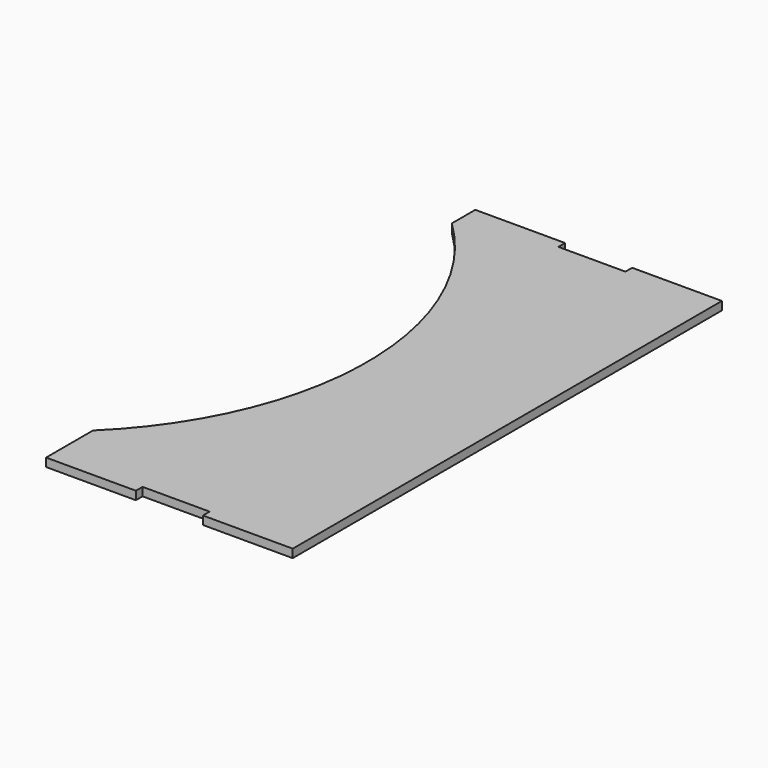
from build123d import *

# Parameters (mm, degrees)
F1_DEPTH = 3.175


with BuildPart() as f1:
    # F0 (on Top) → F1 (new body)
    with BuildSketch(Plane.XY):
        with BuildLine():
            Line((-42.06875, -79.375), (-42.06875, -101.6))
            Line((-42.06875, -101.6), (-14.022917, -101.6))
            Line((-14.022917, -101.6), (-13.768917, -101.6))
            Line((-13.768917, -101.6), (-8.05815, -101.6))
            Line((-8.05815, -101.6), (-8.05815, -98.425))
            Line((-8.05815, -98.425), (4.64185, -98.425))
            Line((4.64185, -98.425), (17.34185, -98.425))
            Line((17.34185, -98.425), (17.34185, -101.6))
            Line((17.34185, -101.6), (50.33645, -101.6))
            Line((50.33645, -101.6), (51.35245, -101.6))
            Line((51.35245, -101.6), (51.35245, 101.6))
            Line((51.35245, 101.6), (24.579512, 101.6))
            Line((24.579512, 101.6), (17.34185, 101.6))
            Line((17.34185, 101.6), (17.34185, 98.425))
            Line((17.34185, 98.425), (4.64185, 98.425))
            Line((4.64185, 98.425), (-8.05815, 98.425))
            Line((-8.05815, 98.425), (-8.05815, 101.6))
            Line((-8.05815, 101.6), (-13.768917, 101.6))
            Line((-13.768917, 101.6), (-14.022917, 101.6))
            Line((-14.022917, 101.6), (-42.06875, 101.6))
            Line((-42.06875, 101.6), (-42.06875, 90.4875))
            ThreePointArc((-42.06875, 90.4875), (-6.127735, 5.55625), (-42.06875, -79.375))
        make_face()
    extrude(amount=F1_DEPTH)


solid = f1.part
